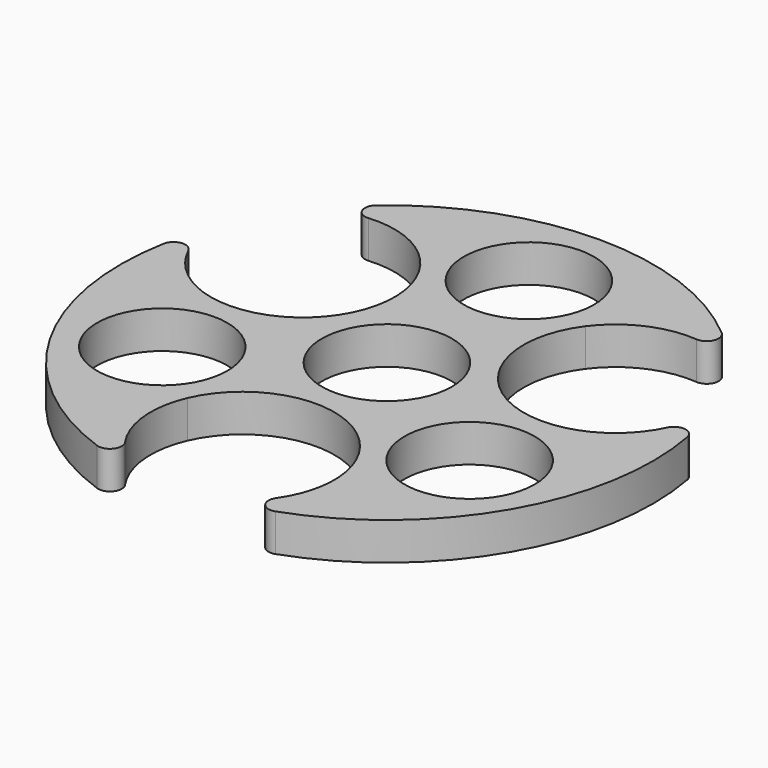
from build123d import *

# Parameters (mm, degrees)
F0_R     = 11
F1_DEPTH = 6.35
F2_R     = 2


with BuildPart() as f1:
    # F0 (on Top) → F1 (new body)
    with BuildSketch(Plane.XY):
        with BuildLine():
            ThreePointArc((-28.195265, -0.164368), (-38.373827, 5.331046), (-41.929181, 16.338414))
            ThreePointArc((-41.929181, 16.338414), (-38.971143, -22.5), (-6.815109, -44.480943))
            ThreePointArc((-6.815109, -44.480943), (-14.570092, -35.898232), (-14.23998, -24.335632))
            ThreePointArc((-14.23998, -24.335632), (0, -15), (14.23998, -24.335632))
            ThreePointArc((14.23998, -24.335632), (14.570092, -35.898232), (6.815109, -44.480943))
            ThreePointArc((6.815109, -44.480943), (38.971143, -22.5), (41.929181, 16.338414))
            ThreePointArc((41.929181, 16.338414), (38.373827, 5.331046), (28.195265, -0.164368))
            ThreePointArc((28.195265, -0.164368), (12.990381, 7.5), (13.955286, 24.5))
            ThreePointArc((13.955286, 24.5), (23.803735, 30.567186), (35.114072, 28.142529))
            ThreePointArc((35.114072, 28.142529), (0, 45), (-35.114072, 28.142529))
            ThreePointArc((-35.114072, 28.142529), (-23.803735, 30.567186), (-13.955286, 24.5))
            ThreePointArc((-13.955286, 24.5), (-12.990381, 7.5), (-28.195265, -0.164368))
        make_face()
        with Locations((-25.980762, -15)):
            Circle(F0_R, mode=Mode.SUBTRACT)
        Circle(F0_R, mode=Mode.SUBTRACT)
        with Locations((25.980762, -15)):
            Circle(F0_R, mode=Mode.SUBTRACT)
        with Locations((0, 30)):
            Circle(F0_R, mode=Mode.SUBTRACT)
    extrude(amount=F1_DEPTH)

    # F2
    f2_edges = [f1.edges().sort_by_distance(p)[0] for p in [
        (6.815109, -44.480943, 3.175),
        (-6.815109, -44.480943, 3.175),
        (-41.929181, 16.338414, 3.175),
        (-35.114072, 28.142529, 3.175),
        (35.114072, 28.142529, 3.175),
        (41.929181, 16.338414, 3.175),
    ]]
    fillet(f2_edges, radius=F2_R)


solid = f1.part
